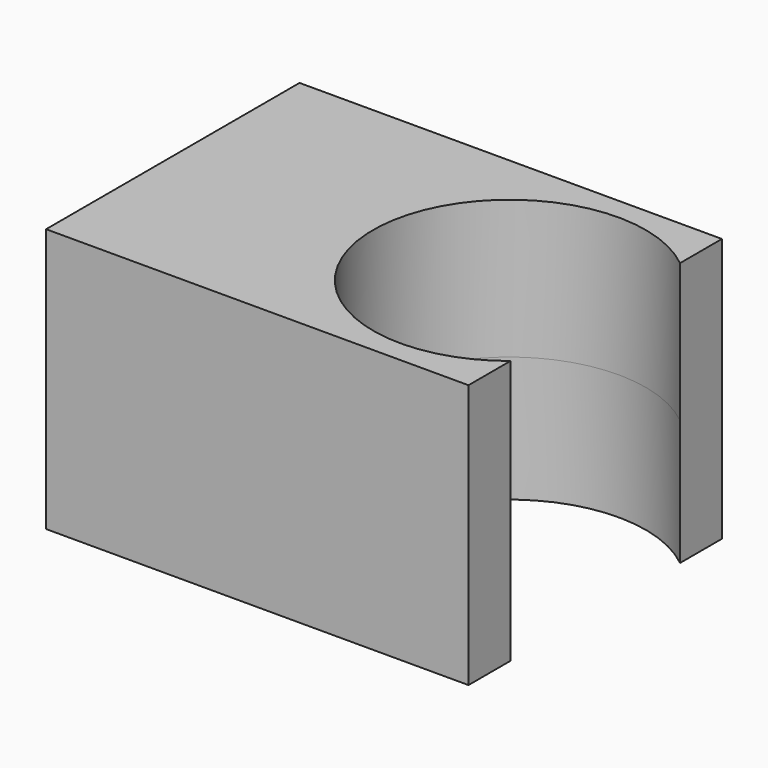
from build123d import *

# Parameters (mm, degrees)
F0_W     = 101.6
F0_H     = 63.5
F1_DEPTH = 76.2
F2_R     = 32.797713
F3_DEPTH = 127
F4_DEPTH = 127


with BuildPart() as f1:
    # F0 (on Front) → F1 (new body)
    with BuildSketch(Plane.XZ):
        with Locations((7.209563, 1.568823)):
            Rectangle(F0_W, F0_H)
    extrude(amount=F1_DEPTH)

    # F2 (on Top) → F3 (cut)
    with BuildSketch(Plane.XY):
        with Locations((37.366524, -38.079627)):
            Circle(F2_R)
    extrude(amount=F3_DEPTH, mode=Mode.SUBTRACT)

    # F3_face (on face) → F4 (cut)
    with BuildSketch(Plane(origin=(33.622944, -38.079627, 0), x_dir=(1, 0, 0), z_dir=(0, 0, 1))):
        with BuildLine():
            Line((24.386619, -25.486367), (24.386619, 25.486367))
            ThreePointArc((24.386619, 25.486367), (-29.054133, 0), (24.386619, -25.486367))
        make_face()
    extrude(amount=-F4_DEPTH, mode=Mode.SUBTRACT)


solid = f1.part
